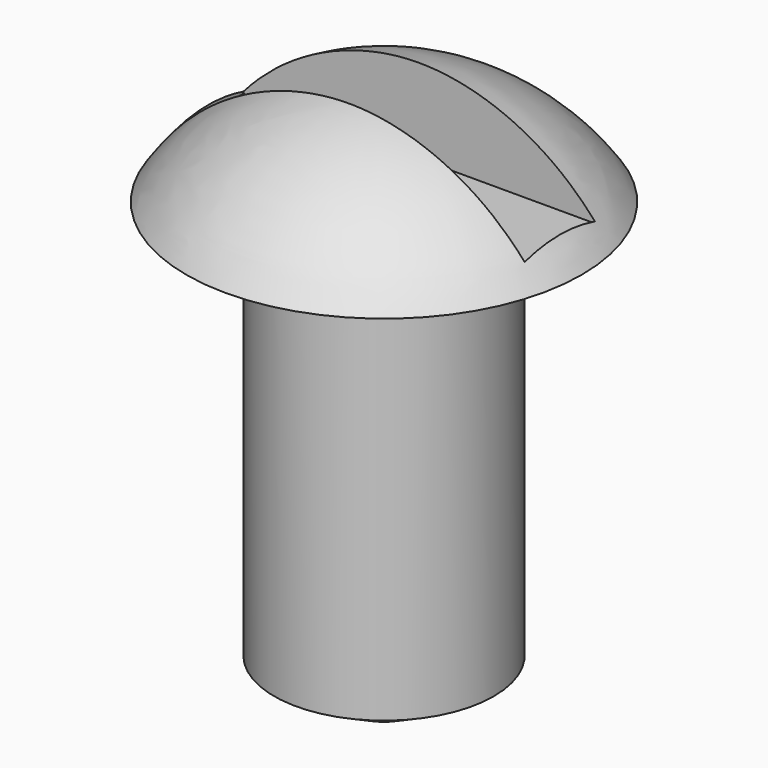
from build123d import *

# Parameters (mm, degrees)
F4_DEPTH = 2.5918


with BuildPart() as f1:
    # F0 (on Front) → F1 (revolve)
    with BuildSketch(Plane.XZ):
        with BuildLine():
            Line((0, 12.538011), (0, 0))
            Line((0, 0), (1.025989, 0))
            Line((1.025989, 0), (3.175, 1.151333))
            Line((3.175, 1.151333), (3.175, 12.7))
            Line((3.175, 12.7), (5.715, 12.7))
            ThreePointArc((5.715, 12.7), (3.240274, 14.976493), (0, 15.875))
            Line((0, 15.875), (0, 12.538011))
        make_face()
    revolve(axis=Axis((0, 0, 14.206505), (0, 0, -1)))

    # F3 (on offset) → F4 (cut, through all)
    with BuildSketch(Plane.XY.offset(13.2842)):
        Polygon((5.08, 1.27), (-5.08, 1.27), (-5.08, -1.27), (5.08, -1.27), (5.08, 0), align=None)
    extrude(amount=F4_DEPTH, mode=Mode.SUBTRACT)


solid = f1.part
